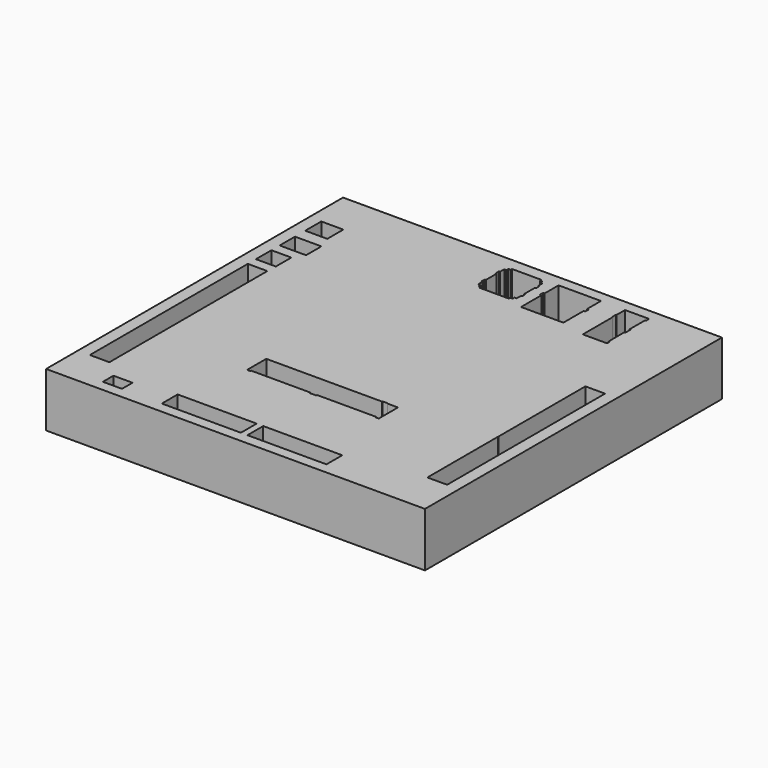
from build123d import *

# Parameters (mm, degrees)
F0_W      = 146.1516
F0_H      = 143.1798
F1_DEPTH  = 20.9042
F2_W      = 136.906
F2_H      = 134.874
F3_DEPTH  = 12.7
F4_W      = 13.97
F4_H      = 11.176
F5_DEPTH  = 12.7
F6_W      = 22.733
F6_H      = 6.096
F7_DEPTH  = 12.7
F8_W      = 15.367
F8_H      = 5.08
F9_DEPTH  = 12.7
F10_W     = 36.703
F10_H     = 12.319
F11_DEPTH = 12.7
F13_DEPTH = 12.7
F14_W     = 22.83968
F14_H     = 21.22805
F15_DEPTH = 12.7
F16_W     = 3.0399242607
F16_H     = 20.8479667597
F17_DEPTH = 12.7
F19_DEPTH = 12.7
F20_W     = 0.0204666441
F20_H     = 21.22805
F21_DEPTH = 12.7
F22_W     = 36.7188937962
F22_H     = 20.8685005598
F23_DEPTH = 12.7
F24_W     = 35.306
F24_H     = 13.2634267211
F25_DEPTH = 12.7
F27_DEPTH = 12.7
F28_W     = 1.4742958935
F28_H     = 20.8479667597
F29_DEPTH = 12.7
F30_W     = 0.2049181255
F30_H     = 13.2839605212
F31_DEPTH = 12.7
F32_W     = 50.9417812916
F32_H     = 3.8105603307
F33_DEPTH = 12.7
F34_W     = 0.1417576911
F34_H     = 9.2577636242
F35_DEPTH = 12.7
F36_W     = 44.7041876614
F36_H     = 0.2025440335
F37_DEPTH = 12.7
F38_W     = 8.9374343662
F38_H     = 3.9174016565
F39_DEPTH = 12.7
F40_W     = 127.9685656338
F40_H     = 2.8044246137
F41_DEPTH = 12.7
F42_W     = 120.384439826
F42_H     = 1.1129770428
F43_DEPTH = 12.7
F45_DEPTH = 12.7
F46_W     = 12.3281155104
F46_H     = 3.9624
F47_DEPTH = 12.7
F48_W     = 4.6508648958
F48_H     = 7.4722463233
F49_DEPTH = 12.7
F51_DEPTH = 12.7
F52_W     = 0.5965952
F52_H     = 1.6107708216
F53_DEPTH = 12.7
F55_DEPTH = 12.7
F57_DEPTH = 12.7
F58_DEPTH = 12.7
F59_W     = 18.6266698875
F59_H     = 19.8514753814
F60_DEPTH = 12.7
F61_W     = 2.536320244
F61_H     = 7.62
F62_DEPTH = 12.7


with BuildPart() as f1:
    # F0 (on Top) → F1 (new body)
    with BuildSketch(Plane.XY):
        Rectangle(F0_W, F0_H)
    extrude(amount=F1_DEPTH)

    # F2 (on face) → F3 (cut)
    with BuildSketch(Plane.XY.offset(20.9042)):
        Rectangle(F2_W, F2_H)
    extrude(amount=-F3_DEPTH, mode=Mode.SUBTRACT)

    # F4 (on face) → F5 (join)
    with BuildSketch(Plane.XY.offset(8.2042)):
        with Locations((-61.468, -61.849)):
            Rectangle(F4_W, F4_H)
    extrude(amount=F5_DEPTH)

    # F6 (on face) → F7 (join)
    with BuildSketch(Plane.XY.offset(8.2042)):
        with Locations((-43.1165, -59.309)):
            Rectangle(F6_W, F6_H)
    extrude(amount=F7_DEPTH)

    # F8 (on face) → F9 (join)
    with BuildSketch(Plane.XY.offset(8.2042)):
        with Locations((-39.4335, -64.897)):
            Rectangle(F8_W, F8_H)
    extrude(amount=F9_DEPTH)

    # F10 (on face) → F11 (join)
    with BuildSketch(Plane.XY.offset(8.2042)):
        with Locations((50.1015, -61.2775)):
            Rectangle(F10_W, F10_H)
    extrude(amount=F11_DEPTH)

    # F12 (on face) → F13 (join)
    with BuildSketch(Plane.XY.offset(8.2042)):
        Polygon((31.75, -56.261), (31.75, -55.118), (-60.8972720802, -55.118), (-60.8972720802, -56.261), (-31.75, -56.261), (-31.75, -59.817), (31.75, -59.817), (31.75, -57.820610702), align=None)
    extrude(amount=F13_DEPTH)

    # F14 (on face) → F15 (join)
    with BuildSketch(Plane.XY.offset(8.2042)):
        with Locations((-12.7041547344, -44.503975)):
            Rectangle(F14_W, F14_H)
    extrude(amount=F15_DEPTH)

    # F16 (on face) → F17 (join)
    with BuildSketch(Plane.XY.offset(8.2042)):
        with Locations((0.235647396, -44.6940166202)):
            Rectangle(F16_W, F16_H)
    extrude(amount=F17_DEPTH)

    # F18 (on face) → F19 (join)
    with BuildSketch(Plane.XY.offset(8.2042)):
        Polygon((24.1150483489, -33.88995), (1.2599385809, -33.88995), (1.2599385809, -34.2700332403), (1.7556095263, -34.2700332403), (1.7556095263, -55.118), (24.1150483489, -55.118), align=None)
    extrude(amount=F19_DEPTH)

    # F20 (on face) → F21 (join)
    with BuildSketch(Plane.XY.offset(8.2042)):
        with Locations((-24.1342280564, -44.503975)):
            Rectangle(F20_W, F20_H)
    extrude(amount=F21_DEPTH)

    # F22 (on face) → F23 (join)
    with BuildSketch(Plane.XY.offset(8.2042)):
        with Locations((42.474495247, -44.6837497201)):
            Rectangle(F22_W, F22_H)
    extrude(amount=F23_DEPTH)

    # F24 (on face) → F25 (join)
    with BuildSketch(Plane.XY.offset(8.2042)):
        with Locations((43.1809421451, -27.6177860796)):
            Rectangle(F24_W, F24_H)
    extrude(amount=F25_DEPTH)

    # F26 (on face) → F27 (join)
    with BuildSketch(Plane.XY.offset(8.2042)):
        Polygon((-25.618757272, -20.9860727191), (-60.924757272, -20.9860727191), (-60.924757272, -55.118), (-60.8972720802, -55.118), (-25.618757272, -55.118), align=None)
    extrude(amount=F27_DEPTH)

    # F28 (on face) → F29 (join)
    with BuildSketch(Plane.XY.offset(8.2042)):
        with Locations((-24.8816093252, -44.6940166202)):
            Rectangle(F28_W, F28_H)
    extrude(amount=F29_DEPTH)

    # F30 (on face) → F31 (join)
    with BuildSketch(Plane.XY.offset(8.2042)):
        with Locations((-25.5162982092, -27.6280529797)):
            Rectangle(F30_W, F30_H)
    extrude(amount=F31_DEPTH)

    # F32 (on face) → F33 (join)
    with BuildSketch(Plane.XY.offset(8.2042)):
        with Locations((0.0570514993, -22.8913528845)):
            Rectangle(F32_W, F32_H)
    extrude(amount=F33_DEPTH)

    # F34 (on face) → F35 (join)
    with BuildSketch(Plane.XY.offset(8.2042)):
        with Locations((25.4570632995, -29.6206176281)):
            Rectangle(F34_W, F34_H)
        Polygon((25.5279421451, -24.991735816), (25.5279421451, -24.7966330498), (21.3277284056, -24.7966330498), (21.3277284056, -24.991735816), (25.386184454, -24.991735816), align=None)
    extrude(amount=F35_DEPTH)

    # F36 (on face) → F37 (join)
    with BuildSketch(Plane.XY.offset(8.2042)):
        with Locations((-3.0617453158, -24.8979050666)):
            Rectangle(F36_W, F36_H)
    extrude(amount=F37_DEPTH)

    # F38 (on face) → F39 (join)
    with BuildSketch(Plane.XY.offset(8.2042)):
        with Locations((-63.9842828169, 21.8571154401)):
            Rectangle(F38_W, F38_H)
    extrude(amount=F39_DEPTH)

    # F40 (on face) → F41 (join)
    with BuildSketch(Plane.XY.offset(8.2042)):
        with Locations((4.4687171831, 22.4136039615)):
            Rectangle(F40_W, F40_H)
    extrude(amount=F41_DEPTH)

    # F42 (on face) → F43 (join)
    with BuildSketch(Plane.XY.offset(8.2042)):
        with Locations((0.6766542792, 20.4549031332)):
            Rectangle(F42_W, F42_H)
    extrude(amount=F43_DEPTH)

    # F44 (on face) → F45 (join)
    with BuildSketch(Plane.XY.offset(8.2042)):
        Polygon((-60.924757272, 19.8984146118), (-60.924757272, -20.9860727191), (60.8339421451, -20.9860727191), (60.8688741922, -20.9860727191), (60.8688741922, 19.8984146118), align=None)
    extrude(amount=F45_DEPTH)

    # F46 (on face) → F47 (join)
    with BuildSketch(Plane.XY.offset(8.2042)):
        with Locations((-62.2889422448, 33.2692625916)):
            Rectangle(F46_W, F46_H)
    extrude(amount=F47_DEPTH)

    # F48 (on face) → F49 (join)
    with BuildSketch(Plane.XY.offset(8.2042)):
        Polygon((-59.9482320249, 47.5855246186), (-56.1248844896, 47.5855246186), (-7.6236505993, 47.5855246186), (-7.6236505993, 67.437), (-68.453, 67.437), (-68.453, 55.3214401007), (-59.9482320249, 55.3214401007), align=None)
        Polygon((-58.2667700946, 42.6384061575), (-58.2667700946, 35.2504625916), (-56.1248844896, 35.2504625916), (-56.1248844896, 47.5855246186), (-59.9482320249, 47.5855246186), (-68.453, 47.5855246186), (-68.453, 42.6384061575), align=None)
        with Locations((-58.4503169375, 27.55193943)):
            Rectangle(F48_W, F48_H)
    extrude(amount=F49_DEPTH)

    # F50 (on face) → F51 (join)
    with BuildSketch(Plane.XY.offset(8.2042)):
        Polygon((13.3893499151, 66.3282424212), (13.3893499151, 66.38789922), (13.3893499151, 67.437), (11.0030192882, 67.437), (11.0030192882, 47.5855246186), (36.7157235742, 47.5855246186), (36.7157235742, 67.437), (29.7357104719, 67.437), (29.7357104719, 66.3282424212), (29.7357104719, 49.3256412446), (13.3893499151, 49.3256412446), (13.3893499151, 59.1095946729), (12.7927670255, 59.1095946729), (12.7927670255, 60.7203654945), (13.3893499151, 60.7203654945), align=None)
    extrude(amount=F51_DEPTH)

    # F52 (on face) → F53 (cut)
    with BuildSketch(Plane.XY.offset(20.9042)):
        with Locations((30.0340080719, 59.9149800837)):
            Rectangle(F52_W, F52_H)
    extrude(amount=-F53_DEPTH, mode=Mode.SUBTRACT)

    # F54 (on face) → F55 (join)
    with BuildSketch(Plane.XY.offset(8.2042)):
        Polygon((36.7157235742, 67.437), (36.7157235742, 61.2382255495), (36.7157235742, 47.5855246186), (36.7157235742, 44.6023866534), (68.453, 44.6733043295), (68.453, 67.437), align=None)
        Polygon((39.0854626894, 61.2382255495), (38.8847962022, 61.2382255495), (38.873040642, 63.3154974574), (39.0944701822, 63.3159922468), (39.0854626894, 67.3470505811), (48.391856432, 67.3678459326), (48.3948141336, 66.0442070147), (48.0193123221, 66.044986248), (48.0035748597, 58.4613198814), (48.376891034, 58.462154065), (48.3826112146, 55.9022428945), (48.0023957789, 55.9013932943), (48.0193123221, 48.3308546245), (48.3948141336, 48.3308546245), (48.3948141336, 47.008857131), (39.0854626894, 47.008857131), align=None, mode=Mode.SUBTRACT)
    extrude(amount=F55_DEPTH)

    # F56 (on face) → F57 (join)
    with BuildSketch(Plane.XY.offset(8.2042)):
        Polygon((-56.1248844896, 44.6023866534), (36.7157235742, 44.6023866534), (36.7157235742, 47.5855246186), (11.0030192882, 47.5855246186), (-7.6236505993, 47.5855246186), (-56.1248844896, 47.5855246186), align=None)
    extrude(amount=F57_DEPTH)

    # F58 (add): a face of the model
    f58_faces = [f1.faces().sort_by_distance(p)[0] for p in [
        (6.1865200926, 34.2136264879, 8.2042),
    ]]
    extrude(f58_faces, amount=F58_DEPTH)

    # F59 (on face) → F60 (join)
    with BuildSketch(Plane.XY.offset(8.2042)):
        with Locations((1.6896843445, 57.5112623093)):
            Rectangle(F59_W, F59_H)
        Polygon((-5.9129633009, 52.9398955405), (-5.9129633009, 54.9593605101), (-6.353115936, 54.9970567226), (-6.353115936, 56.5094996253), (-5.934735491, 56.5619803965), (-5.934735491, 61.7567235961), (-6.353115936, 61.8088580668), (-6.353115936, 63.3012766497), (-5.9279869311, 63.3546039462), (-5.9279869311, 65.3928667307), (-5.0910133868, 65.3928667307), (-5.0910133868, 66.3584321737), (-4.1863322258, 66.3584321737), (-4.1863322258, 66.9948086143), (7.1273995563, 66.9948086143), (7.1273995563, 66.3435682654), (8.0246776342, 66.3435682654), (8.0246776342, 65.3805136681), (8.8445162401, 65.3805136681), (8.8445162401, 63.3501261473), (9.2323757708, 63.3093193173), (9.2695318162, 63.2747858763), (9.2695318162, 61.8418827653), (9.2323757708, 61.8088580668), (8.8445162401, 61.7602057755), (8.8445162401, 56.5535761416), (9.1401832178, 56.5167330205), (9.2323757708, 56.4947389066), (9.2673106119, 56.4729869366), (9.2748431489, 56.4584843814), (9.2748431489, 55.0567209721), (9.2683695257, 55.0422929227), (9.234521538, 55.0210215151), (9.1941989958, 55.0067797303), (9.1401832178, 54.9970567226), (8.9794592932, 54.9773350358), (8.8445162401, 54.9603402615), (8.8445162401, 52.935667336), (8.0229612067, 52.935667336), (8.0229612067, 51.9765391946), (7.1176989004, 51.9765391946), (7.1176989004, 51.3154454529), (-4.1863322258, 51.3154454529), (-4.1863322258, 51.9765391946), (-5.0910133868, 51.9765391946), (-5.0910133868, 52.380554378), (-5.0910133868, 52.9398955405), align=None, mode=Mode.SUBTRACT)
    extrude(amount=F60_DEPTH)

    # F61 (on face) → F62 (join)
    with BuildSketch(Plane.XY.offset(8.2042)):
        with Locations((0.0027513015, -63.627)):
            Rectangle(F61_W, F61_H)
    extrude(amount=F62_DEPTH)


solid = f1.part
